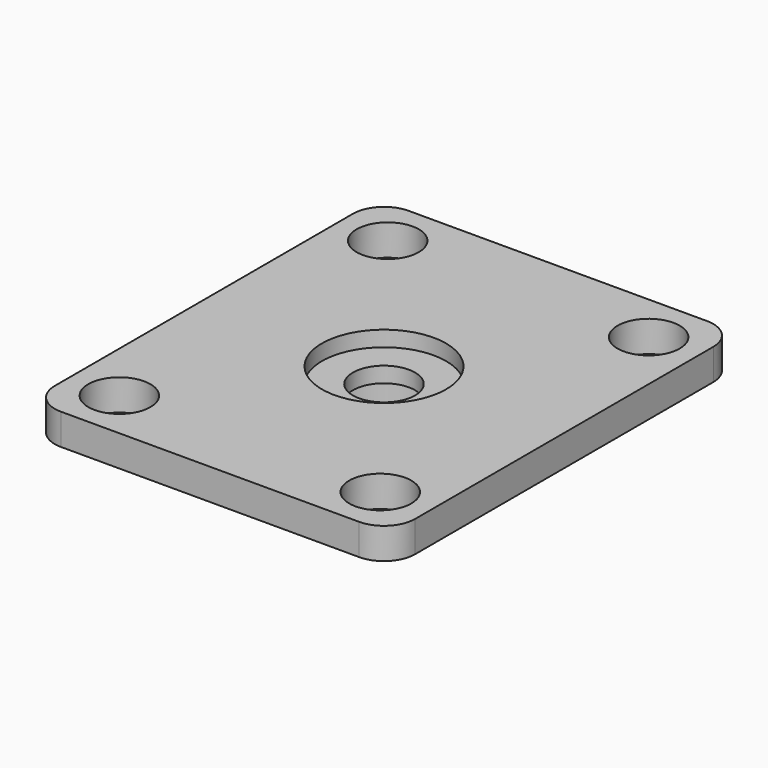
from build123d import *

# Parameters (mm, degrees)
F0_W     = 58
F0_H     = 70
F0_R     = 5
F0_R_2   = 10
F1_DEPTH = 5
F0_R_3   = 9.5
F2_DEPTH = 2.5
F3_DEPTH = 10
F4_R     = 5


with BuildPart() as f1:
    # F0 (on Top) → F1 (new body)
    with BuildSketch(Plane.XY):
        Rectangle(F0_W, F0_H)
        with Locations((-21, -27)):
            Circle(F0_R, mode=Mode.SUBTRACT)
        with Locations((21, -27)):
            Circle(F0_R, mode=Mode.SUBTRACT)
        with Locations((-21, 27)):
            Circle(F0_R, mode=Mode.SUBTRACT)
        Circle(F0_R_2, mode=Mode.SUBTRACT)
        with Locations((21, 27)):
            Circle(F0_R, mode=Mode.SUBTRACT)
    extrude(amount=F1_DEPTH)

    # F0 (on Top) → F2 (join)
    with BuildSketch(Plane.XY):
        Circle(F0_R_2)
        Circle(F0_R_3, mode=Mode.SUBTRACT)
        Circle(F0_R_3)
        Circle(F0_R, mode=Mode.SUBTRACT)
    extrude(amount=F2_DEPTH)

    # F0 (on Top) → F3 (join)
    with BuildSketch(Plane.XY):
        Circle(F0_R_2)
        Circle(F0_R_3, mode=Mode.SUBTRACT)
    extrude(amount=-F3_DEPTH)

    # F4
    f4_edges = [f1.edges().sort_by_distance(p)[0] for p in [
        (-29, -35, 2.5),
        (29, -35, 2.5),
        (29, 35, 2.5),
        (-29, 35, 2.5),
    ]]
    fillet(f4_edges, radius=F4_R)


solid = f1.part
